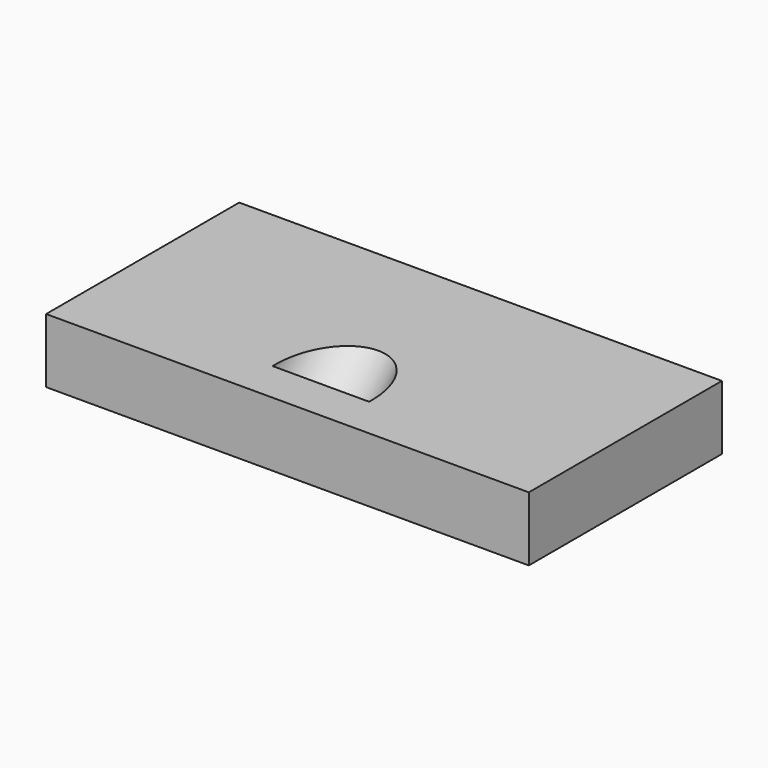
from build123d import *

# Parameters (mm, degrees)
F0_W     = 30
F0_H     = 15
F1_DEPTH = 4
F2_R     = 3
F3_DEPTH = 25
F4_ANGLE = 45


with BuildPart() as f1:
    # F0 (on Top) → F1 (new body)
    with BuildSketch(Plane.XY):
        Rectangle(F0_W, F0_H)
    extrude(amount=F1_DEPTH)


with BuildPart() as f3:
    # F2 (on Top) → F3 (new body)
    with BuildSketch(Plane.XY):
        with Locations((0, -2.5)):
            Circle(F2_R)
    extrude(amount=F3_DEPTH)


with BuildPart() as f3_1:
    # F4: moved
    add(f3.part.rotate(Axis((0, -7.5, 4), (-1, 0, 0)), F4_ANGLE))


with BuildPart() as f3_2:
    # F5: moved
    add(f3_1.part.moved(Location((0, 2, 6.25))))


with BuildPart() as f1_1:
    add(f1.part)

    # F6: cut F3
    add(f3_2.part, mode=Mode.SUBTRACT)


solid = f1_1.part
